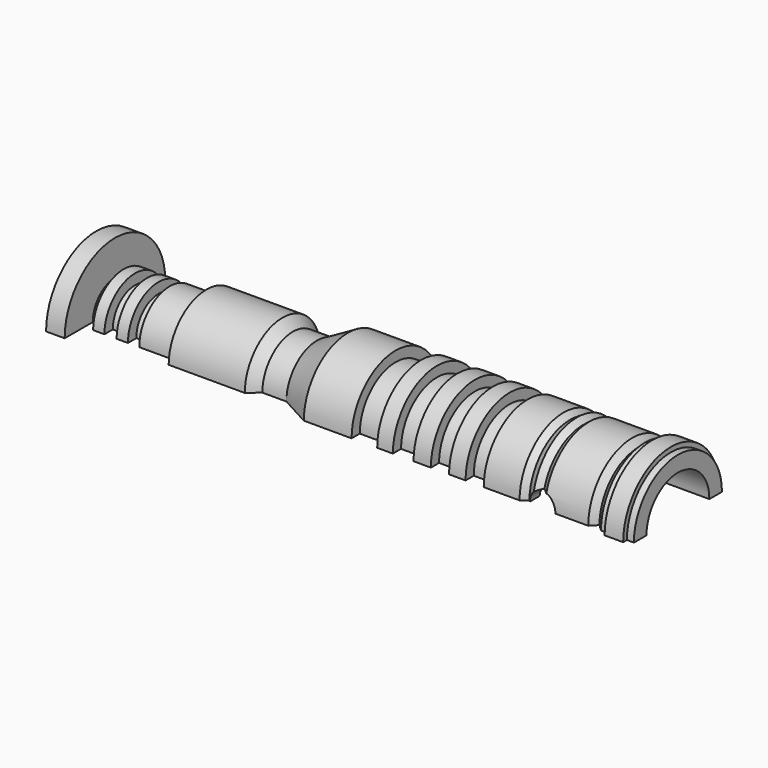
from build123d import *

# Parameters (mm, degrees)
F1_ANGLE = -180
F2_R     = 4.5
F3_DEPTH = 127.6
F4_R     = 12.5
F5_DEPTH = 100
F6_R     = 4.5
F7_DEPTH = 16.8
F8_R     = 9.247481
F9_DEPTH = 58.7


with BuildPart() as f1:
    # F0 (on Top) → F1 (revolve)
    with BuildSketch(Plane.XY):
        Polygon((-150, 5), (-125.782207, 5), (-122.500561, 7.857719), (-114.843413, 7.857719), (-105, 2.5), (-89.808904, 2.5), (-89.808904, 5.75), (-81.664719, 5.75), (-81.664719, 2.5), (-76.673128, 2.5), (-76.673128, 5.75), (-70.105232, 5.75), (-70.105232, 2.5), (-64.588204, 2.5), (-64.588204, 5.75), (-58.808461, 5.75), (-58.808461, 2.5), (-53.554147, 2.5), (-53.554147, 5.75), (-47.774404, 5.75), (-47.774404, 2.5), (-36.38434, 2.5), (-34.337129, 3.887209), (-32.161966, 2.5), (-30.114755, 3.887209), (-28.323445, 2.5), (-14.525713, 2.5), (-12.570513, 4.523719), (-10.475874, 2.5), (-8.125912, 2.5), (-8.125912, 1.010104), (-2.228058, 1.010104), (-2.228058, 2.5), (0, 2.5), (0, 20), (-185, 20), (-185, 0), (-179.089636, 0), (-179.089636, 11.18013), (-176.320955, 11.18013), (-176.320955, 7.857719), (-172.721684, 7.857719), (-172.721684, 11.18013), (-168.845534, 11.18013), (-168.845534, 7.857719), (-165.246248, 7.857719), (-165.246248, 11.18013), (-161.646977, 11.18013), (-161.646977, 7.857719), (-150, 7.857719), align=None)
    revolve(axis=Axis((-92.5, 20, 0), (1, 0, 0)), revolution_arc=F1_ANGLE)

    # F2 (on face) → F3 (cut)
    with BuildSketch(Plane(origin=(-185, 0, 0), x_dir=(0, -1, 0), z_dir=(-1, 0, 0))):
        with Locations((-20, 0)):
            Circle(F2_R)
    extrude(amount=-F3_DEPTH, mode=Mode.SUBTRACT)

    # F4 (on face) → F5 (cut)
    with BuildSketch(Plane.YZ):
        with Locations((20, 0)):
            Circle(F4_R)
    extrude(amount=-F5_DEPTH, mode=Mode.SUBTRACT)

    # F6 (on Front) → F7 (cut)
    with BuildSketch(Plane.XZ):
        with Locations((-29.463233, 0)):
            Circle(F6_R)
    extrude(amount=-F7_DEPTH, mode=Mode.SUBTRACT)

    # F8 (on face) → F9 (cut)
    with BuildSketch(Plane.YZ.offset(-100)):
        with Locations((20, 0)):
            Circle(F8_R)
        with Locations((20, 0)):
            Circle(F8_R)
    extrude(amount=-F9_DEPTH, mode=Mode.SUBTRACT)


solid = f1.part
